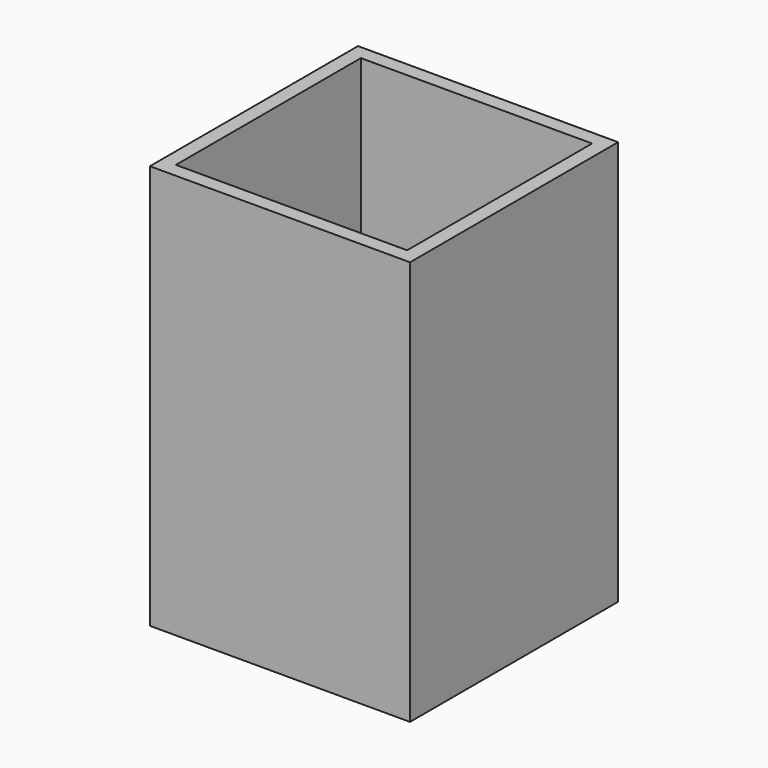
from build123d import *

# Parameters (mm, degrees)
F0_W     = 50.8
F0_H     = 50.8
F1_DEPTH = 3.175
F2_W     = 57.15
F2_H     = 88.9
F3_DEPTH = 3.175
F4_W     = 57.15
F4_H     = 88.9
F5_DEPTH = 3.175
F6_W     = 50.8
F6_H     = 88.9
F7_DEPTH = 3.175
F8_W     = 50.8
F8_H     = 88.9
F9_DEPTH = 3.175


with BuildPart() as f1:
    # F0 (on Top) → F1 (new body)
    with BuildSketch(Plane.XY):
        Rectangle(F0_W, F0_H)
    extrude(amount=F1_DEPTH)

    # F2 (on face) → F3 (join)
    with BuildSketch(Plane.XZ.offset(25.4)):
        with Locations((0, 44.45)):
            Rectangle(F2_W, F2_H)
    extrude(amount=F3_DEPTH)

    # F4 (on face) → F5 (join)
    with BuildSketch(Plane(origin=(0, 25.4, 0), x_dir=(-1, 0, 0), z_dir=(0, 1, 0))):
        with Locations((0, 44.45)):
            Rectangle(F4_W, F4_H)
    extrude(amount=F5_DEPTH)

    # F6 (on face) → F7 (join)
    with BuildSketch(Plane(origin=(-25.4, 0, 0), x_dir=(0, -1, 0), z_dir=(-1, 0, 0))):
        with Locations((0, 44.45)):
            Rectangle(F6_W, F6_H)
    extrude(amount=F7_DEPTH)

    # F8 (on face) → F9 (join)
    with BuildSketch(Plane.YZ.offset(25.4)):
        with Locations((0, 44.45)):
            Rectangle(F8_W, F8_H)
    extrude(amount=F9_DEPTH)


solid = f1.part
